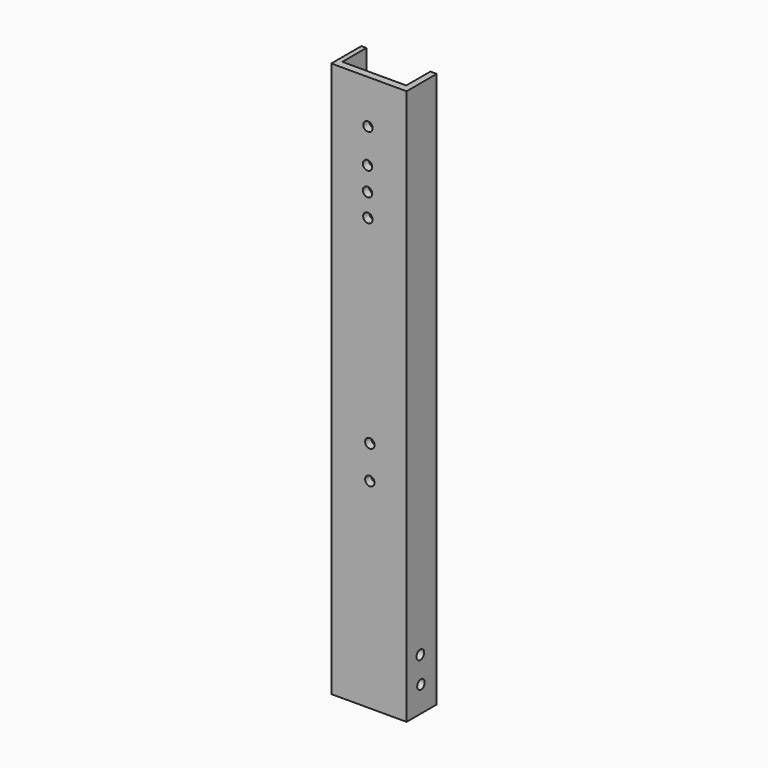
from build123d import *

# Parameters (mm, degrees)
F0_W     = 25.4
F0_H     = 187.325
F1_DEPTH = 12.7
F2_W     = 21.59
F2_H     = 203.2
F3_DEPTH = 10.16
F5_D     = 3.175
F7_D     = 3.175
F9_D     = 3.175
F11_D    = 3.175
F13_D    = 3.175
F15_D    = 3.175
F17_D    = 3.175
F19_D    = 3.175


with BuildPart() as f1:
    # F0 (on Front) → F1 (new body)
    with BuildSketch(Plane.XZ):
        with Locations((-12.7, -39.635856)):
            Rectangle(F0_W, F0_H)
    extrude(amount=F1_DEPTH)

    # F2 (on Front) → F3 (cut)
    with BuildSketch(Plane.XZ):
        with Locations((-12.927838, -40.12759)):
            Rectangle(F2_W, F2_H)
    extrude(amount=F3_DEPTH, mode=Mode.SUBTRACT)

    # F5 (through all)
    with Locations(Plane.YZ):
        with Locations((-6.634117, -124.644481)):
            Hole(F5_D / 2)

    # F7 (through all)
    with Locations(Plane.YZ):
        with Locations((-6.922298, -115.689509)):
            Hole(F7_D / 2)

    # F9 (through all)
    with Locations(Plane(origin=(0, -10.16, 0), x_dir=(-1, 0, 0), z_dir=(0, 1, 0))):
        with Locations((13.036209, 39.331164)):
            Hole(F9_D / 2)

    # F11 (through all)
    with Locations(Plane(origin=(0, -10.16, 0), x_dir=(-1, 0, 0), z_dir=(0, 1, 0))):
        with Locations((13.172005, 27.753444)):
            Hole(F11_D / 2)

    # F13 (through all)
    with Locations(Plane(origin=(0, -10.16, 0), x_dir=(-1, 0, 0), z_dir=(0, 1, 0))):
        with Locations((13.182849, 19.840507)):
            Hole(F13_D / 2)

    # F15 (through all)
    with Locations(Plane(origin=(0, -10.16, 0), x_dir=(-1, 0, 0), z_dir=(0, 1, 0))):
        with Locations((13.062824, 12.179698)):
            Hole(F15_D / 2)

    # F17 (through all)
    with Locations(Plane(origin=(0, -10.16, 0), x_dir=(-1, 0, 0), z_dir=(0, 1, 0))):
        with Locations((12.404508, -54.598644)):
            Hole(F17_D / 2)

    # F19 (through all)
    with Locations(Plane(origin=(0, -10.16, 0), x_dir=(-1, 0, 0), z_dir=(0, 1, 0))):
        with Locations((12.404508, -65.762699)):
            Hole(F19_D / 2)


solid = f1.part
